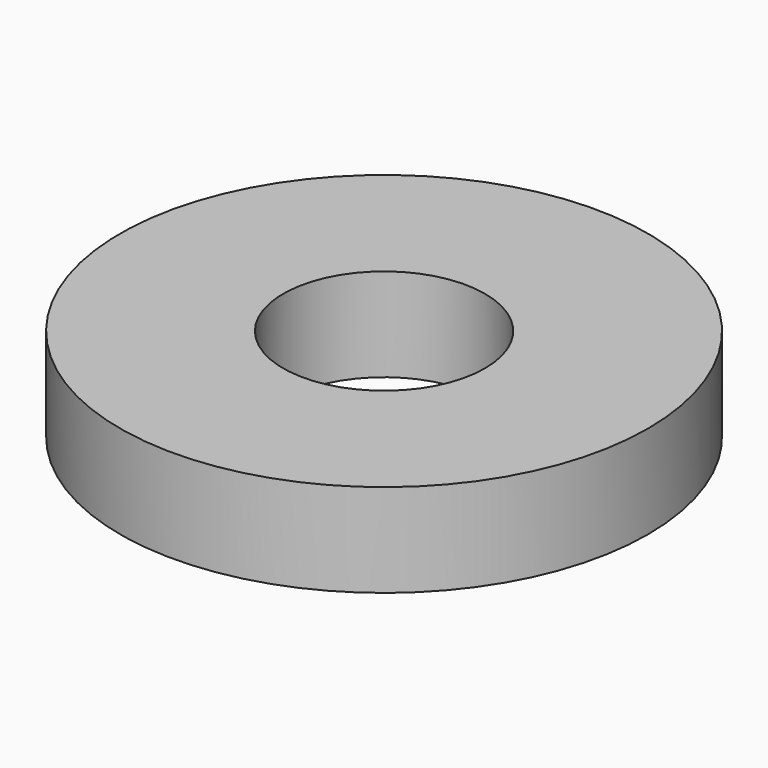
from build123d import *

# Parameters (mm, degrees)
SKETCH_R   = 8.5
SKETCH_R_2 = 3.25
PAD_DEPTH  = 3


with BuildPart() as part:
    # Sketch → Pad (new body)
    with BuildSketch(Plane.XY):
        Circle(SKETCH_R)
        Circle(SKETCH_R_2, mode=Mode.SUBTRACT)
    extrude(amount=PAD_DEPTH)


solid = part.part
